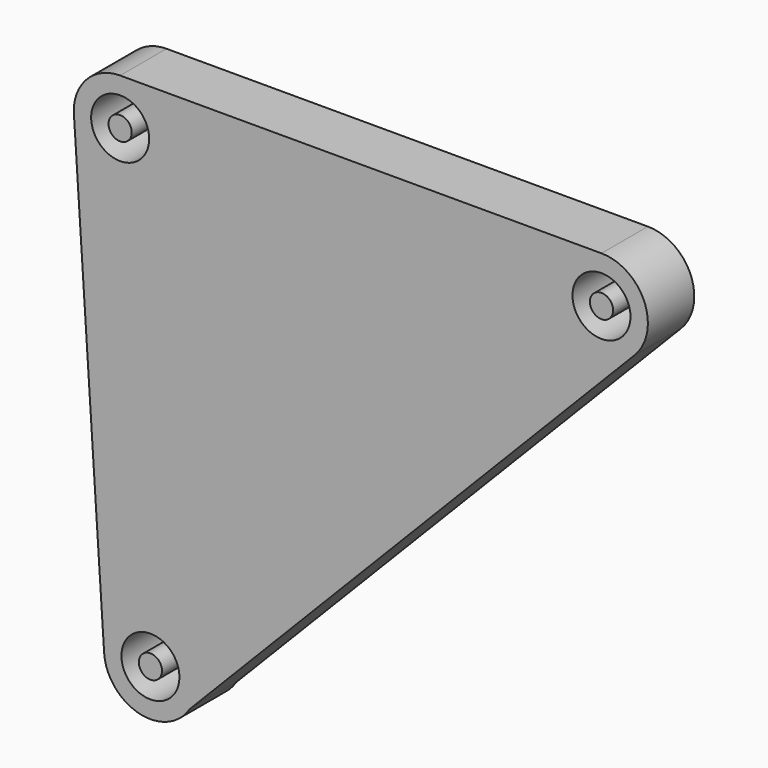
from build123d import *

# Parameters (mm, degrees)
F0_R     = 2.5
F0_R_2   = 1
F1_DEPTH = 5


with BuildPart() as f1:
    # F0 (on Front) → F1 (new body)
    with BuildSketch(Plane.XZ):
        with BuildLine():
            Line((-9.716306, -39.403216), (28.653882, -0.052522))
            ThreePointArc((28.653882, -0.052522), (29.47579, 4.294013), (25.79, 6.74))
            Line((25.79, 6.74), (-15.71, 6.74))
            ThreePointArc((-15.71, 6.74), (-18.538427, 5.568427), (-19.71, 2.74))
            Line((-19.71, 2.74), (-19.676319, 2.222009))
            Line((-19.676319, 2.222009), (-17.091571, -37.529542))
            ThreePointArc((-17.091571, -37.529542), (-14.084907, -41.146849), (-9.716306, -39.403216))
        make_face()
        with Locations((-13.1, -37.27)):
            Circle(F0_R, mode=Mode.SUBTRACT)
        with Locations((-15.71, 2.74)):
            Circle(F0_R, mode=Mode.SUBTRACT)
        with Locations((25.79, 2.74)):
            Circle(F0_R, mode=Mode.SUBTRACT)
        with BuildLine():
            Line((-19.676319, 2.222009), (-19.71, 2.74))
            ThreePointArc((-19.71, 2.74), (-19.701571, 2.480458), (-19.676319, 2.222009))
        make_face()
        with Locations((-15.71, 2.74)):
            Circle(F0_R_2)
        with Locations((25.79, 2.74)):
            Circle(F0_R_2)
        with Locations((-13.1, -37.27)):
            Circle(F0_R_2)
    extrude(amount=F1_DEPTH)


solid = f1.part
